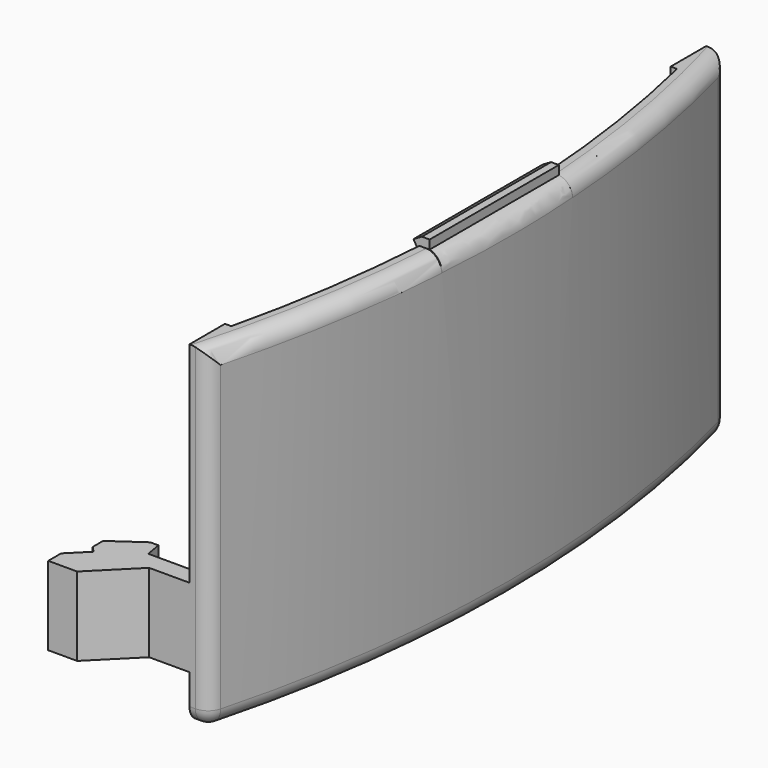
from build123d import *

# Parameters (mm, degrees)
EXTRUDE136083_DEPTH                     = 20
EXTRUDE136083_ONTO_SKETCH302_ROLL_ANGLE = 90
EXTRUDE136073_DEPTH                     = 9.75
BOX023_W                                = 25
BOX023_H                                = 80
BOX023_DEPTH                            = 51
EXTRUDE136056_DEPTH                     = 40
EXTRUDE136055_DEPTH                     = 42
FILLET007_R                             = 2


with BuildPart() as extrude136083:
    # Sketch302 as drawn → Extrude136083 (new)
    with BuildSketch(Plane.XY):
        Polygon((2, -3.464102), (0, 0), (1.03923, 0.6), (2, 0.6), align=None)
    extrude(amount=-EXTRUDE136083_DEPTH)


with BuildPart() as extrude136083_1:
    # Extrude136083 onto Sketch302 roll: moved
    add(extrude136083.part.rotate(Axis((0, 0, 0), (1, 0, 0)), EXTRUDE136083_ONTO_SKETCH302_ROLL_ANGLE))


with BuildPart() as extrude136083_2:
    # Extrude136083 onto Sketch302 placement: moved
    add(extrude136083_1.part.moved(Location((0, -10, 0))))


with BuildPart() as extrude136083_3:
    # Extrude136083 placement: moved
    add(extrude136083_2.part.moved(Location((84, 0, 0))))


with BuildPart() as fusion034004041072:
    # Sketch294 → Extrude136073 (new body)
    with BuildSketch(Plane.XY):
        Polygon((-1, 35.75), (0, 35.75), (0.352654, 37.75), (8.25, 37.75), (8.25, 40), (2.25, 40), (-2.699747, 44.949747), (-6.285534, 44.949747), (-6.285534, 42.949747), (-4.042893, 40.707107), (-4.75, 40), (-4.75, 38.375778), align=None)
        Polygon((-1, -35.75), (0, -35.75), (0.352654, -37.75), (8.25, -37.75), (8.25, -40), (2.25, -40), (-2.699747, -44.949747), (-6.285534, -44.949747), (-6.285534, -42.949747), (-4.042893, -40.707107), (-4.75, -40), (-4.75, -38.375778), align=None)
    extrude(amount=-EXTRUDE136073_DEPTH)


with BuildPart() as fusion034004041072_1:
    # Extrude136073 placement: moved
    add(fusion034004041072.part.moved(Location((73, 0, -26.5))))

    # Fusion034004041072: union Extrude136083
    add(extrude136083_3.part)


with BuildPart() as cube020:
    # Box023 → Box023 (new body)
    with BuildSketch(Plane(origin=(80.25, -40, -51.5), x_dir=(1, 0, 0), z_dir=(0, 0, 1))):
        with Locations((12.5, 40)):
            Rectangle(BOX023_W, BOX023_H)
    extrude(amount=BOX023_DEPTH)


with BuildPart() as extrude136056:
    # Sketch277 → Extrude136056 (new body)
    with BuildSketch(Plane.XY):
        with BuildLine():
            ThreePointArc((81.0383, -34.5), (85.059706, 0), (81.0383, 34.5))
            Line((66.5383, 34.5), (81.0383, 34.5))
            Line((63.0383, 38), (66.5383, 34.5))
            Line((40.0383, 38), (63.0383, 38))
            Line((27.5383, 25.5), (40.0383, 38))
            Line((12.636376, 25.5), (27.5383, 25.5))
            Line((10.0383, 30), (12.636376, 25.5))
            Line((10.0383, 30), (-52.9617, 30))
            Line((-62.9617, 26), (-52.9617, 30))
            Line((-82.9617, 25), (-62.9617, 26))
            ThreePointArc((-82.9617, 25), (-85.059706, 0), (-82.9617, -25))
            Line((-82.9617, -25), (-62.9617, -26))
            Line((-62.9617, -26), (-52.9617, -30))
            Line((10.0383, -30), (-52.9617, -30))
            Line((10.0383, -30), (12.636376, -25.5))
            Line((12.636376, -25.5), (27.5383, -25.5))
            Line((27.5383, -25.5), (40.0383, -38))
            Line((40.0383, -38), (63.0383, -38))
            Line((63.0383, -38), (66.5383, -34.5))
            Line((66.5383, -34.5), (81.0383, -34.5))
        make_face()
    extrude(amount=-EXTRUDE136056_DEPTH)


with BuildPart() as batterycoverfillet007:
    # Sketch276 → Extrude136055 (new body)
    with BuildSketch(Plane.XY):
        with BuildLine():
            ThreePointArc((-84.489299, 32), (-87.942378, 0), (-84.489299, -32))
            Line((-84.489299, -32), (29.510701, -32))
            Line((29.510701, -32), (37.510701, -40))
            Line((37.510701, -40), (82.510701, -40))
            ThreePointArc((82.510701, -40), (87.942378, 0), (82.510701, 40))
            Line((37.510701, 40), (82.510701, 40))
            Line((29.510701, 32), (37.510701, 40))
            Line((-84.489299, 32), (29.510701, 32))
        make_face()
    extrude(amount=-EXTRUDE136055_DEPTH)

    # Cut009010006006006005016: cut Extrude136056
    add(extrude136056.part, mode=Mode.SUBTRACT)

    # Common001: intersect Cube020
    add(cube020.part, mode=Mode.INTERSECT)

    # Fusion034004041073: union Fusion034004041072
    add(fusion034004041072_1.part)

    # Fillet007
    fillet007_edges = [batterycoverfillet007.edges().sort_by_distance(p)[0] for p in [
        (81.380351, 40, -42),
        (87.942378, 0, -42),
        (81.380351, -40, -42),
        (82.510701, 40, -21.25),
        (87.942378, 0, -0.5),
        (82.510701, -40, -21.25),
    ]]
    fillet(fillet007_edges, radius=FILLET007_R)


with BuildPart() as batterycoverfillet007_1:
    # Fillet007 placement: moved
    add(batterycoverfillet007.part.moved(Location((0, 0, -25.5))))


solid = batterycoverfillet007_1.part
